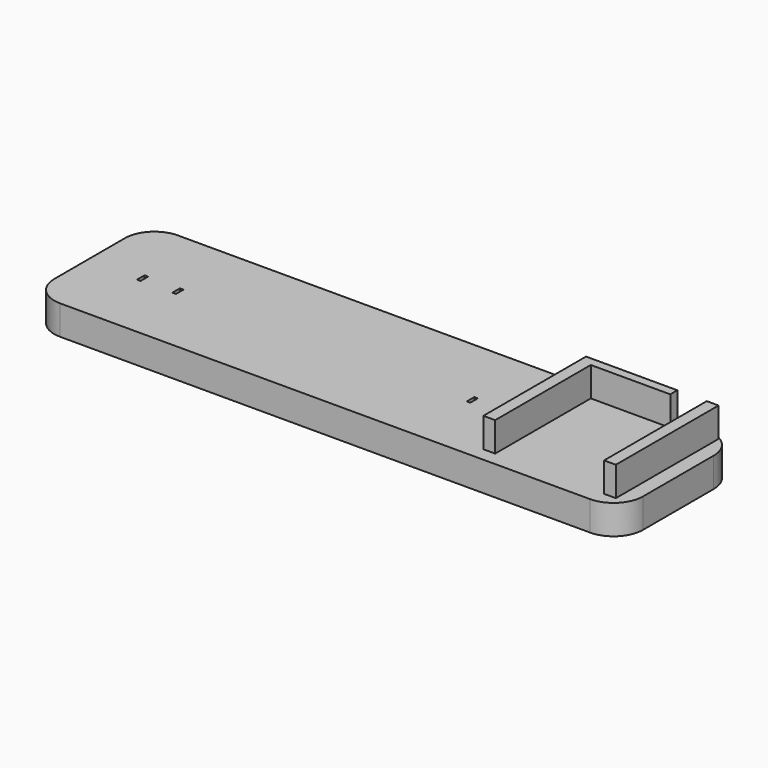
from build123d import *

# Parameters (mm, degrees)
F0_W     = 0.6
F0_H     = 1.6
F1_DEPTH = 5
F3_DEPTH = 5
F4_W     = 5
F4_H     = 5
F5_DEPTH = 25


with BuildPart() as f1:
    # F0 (on Top) → F1 (new body)
    with BuildSketch(Plane.XY):
        with BuildLine():
            ThreePointArc((50, 7.5), (48.535534, 11.035534), (45, 12.5))
            Line((45, 12.5), (-45, 12.5))
            ThreePointArc((-45, 12.5), (-48.535534, 11.035534), (-50, 7.5))
            Line((-50, 7.5), (-50, -7.5))
            ThreePointArc((-50, -7.5), (-48.535534, -11.035534), (-45, -12.5))
            Line((-45, -12.5), (45, -12.5))
            ThreePointArc((45, -12.5), (48.535534, -11.035534), (50, -7.5))
            Line((50, -7.5), (50, 7.5))
        make_face()
        with Locations((-41, 0)):
            Rectangle(F0_W, F0_H, mode=Mode.SUBTRACT)
        with Locations((-35, 0)):
            Rectangle(F0_W, F0_H, mode=Mode.SUBTRACT)
        with Locations((15, 0)):
            Rectangle(F0_W, F0_H, mode=Mode.SUBTRACT)
        with Locations((21, 0)):
            Rectangle(F0_W, F0_H, mode=Mode.SUBTRACT)
    extrude(amount=F1_DEPTH)

    # F2 (on face) → F3 (join)
    with BuildSketch(Plane.XY.offset(5)):
        Polygon((25, -10.15), (27, -10.15), (27, 10.15), (45.5, 10.15), (45.5, -10.15), (47.5, -10.15), (47.5, 10.15), (47.5, 11.65), (25, 11.65), (25, 10.15), align=None)
    extrude(amount=F3_DEPTH)

    # F4 (on face) → F5 (cut)
    with BuildSketch(Plane(origin=(0, 11.65, 0), x_dir=(-1, 0, 0), z_dir=(0, 1, 0))):
        with Locations((-43, 7.5)):
            Rectangle(F4_W, F4_H)
    extrude(amount=-F5_DEPTH, mode=Mode.SUBTRACT)


solid = f1.part
